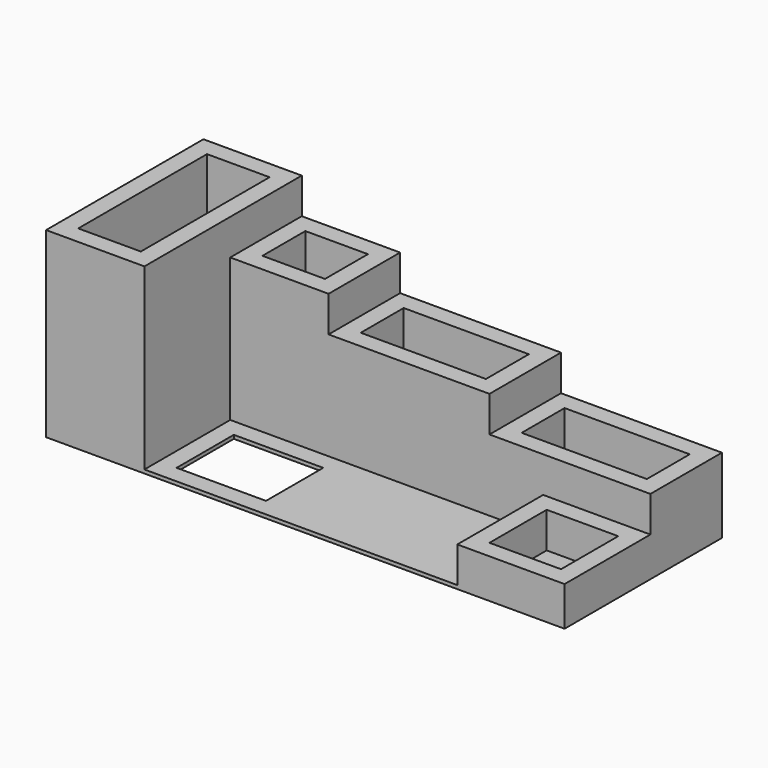
from build123d import *

# Parameters (mm, degrees)
F0_W      = 500
F0_H      = 400
F1_DEPTH  = 20
F2_W      = 900
F2_H      = 500
F2_W_2    = 700
F2_H_2    = 300
F3_DEPTH  = 400
F4_W      = 900
F4_H      = 500
F4_W_2    = 700
F4_H_2    = 300
F5_DEPTH  = 600
F6_W      = 550
F6_H      = 500
F6_W_2    = 350
F6_H_2    = 300
F7_DEPTH  = 800
F8_W      = 550
F8_H      = 1100
F8_W_2    = 350
F8_H_2    = 900
F9_DEPTH  = 1000
F10_W     = 600
F10_H     = 600
F10_W_2   = 400
F10_H_2   = 400
F11_DEPTH = 200


with BuildPart() as f1:
    # F0 (on Top) → F1 (new body)
    with BuildSketch(Plane.XY):
        Polygon((-2350, 0), (0, 0), (0, 1100), (-2900, 1100), (-2900, 0), align=None)
        with Locations((-2000, 300)):
            Rectangle(F0_W, F0_H, mode=Mode.SUBTRACT)
    extrude(amount=F1_DEPTH)

    # F2 (on face) → F3 (join)
    with BuildSketch(Plane.XY.offset(20)):
        with Locations((-450, 850)):
            Rectangle(F2_W, F2_H)
        with Locations((-450, 850)):
            Rectangle(F2_W_2, F2_H_2, mode=Mode.SUBTRACT)
    extrude(amount=F3_DEPTH)

    # F4 (on face) → F5 (join)
    with BuildSketch(Plane.XY.offset(20)):
        with Locations((-1350, 850)):
            Rectangle(F4_W, F4_H)
        with Locations((-1350, 850)):
            Rectangle(F4_W_2, F4_H_2, mode=Mode.SUBTRACT)
    extrude(amount=F5_DEPTH)

    # F6 (on face) → F7 (join)
    with BuildSketch(Plane.XY.offset(20)):
        with Locations((-2075, 850)):
            Rectangle(F6_W, F6_H)
        with Locations((-2075, 850)):
            Rectangle(F6_W_2, F6_H_2, mode=Mode.SUBTRACT)
    extrude(amount=F7_DEPTH)

    # F8 (on face) → F9 (join)
    with BuildSketch(Plane.XY.offset(20)):
        with Locations((-2625, 550)):
            Rectangle(F8_W, F8_H)
        with Locations((-2625, 550)):
            Rectangle(F8_W_2, F8_H_2, mode=Mode.SUBTRACT)
    extrude(amount=F9_DEPTH)

    # F10 (on face) → F11 (join)
    with BuildSketch(Plane.XY.offset(20)):
        with Locations((-300, 300)):
            Rectangle(F10_W, F10_H)
        with Locations((-300, 300)):
            Rectangle(F10_W_2, F10_H_2, mode=Mode.SUBTRACT)
    extrude(amount=F11_DEPTH)


solid = f1.part
